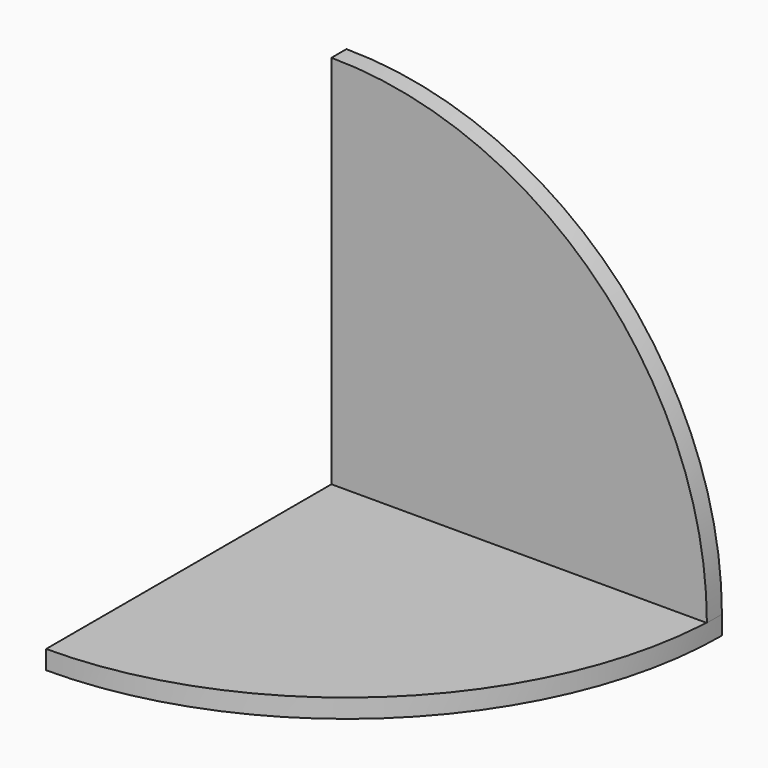
from build123d import *

# Parameters (mm, degrees)
F1_DEPTH = 12.7
F3_DEPTH = 12.7


with BuildPart() as f1:
    # F0 (on Top) → F1 (new body)
    with BuildSketch(Plane.XY):
        with BuildLine():
            Line((254, 0), (0, 0))
            Line((0, 0), (0, -254))
            ThreePointArc((0, -254), (179.605122, -179.605122), (254, 0))
        make_face()
    extrude(amount=-F1_DEPTH)


with BuildPart() as f3:
    # F2 (on Front) → F3 (new body)
    with BuildSketch(Plane.XZ):
        with BuildLine():
            Line((0, 254), (0, 0))
            Line((0, 0), (254, 0))
            ThreePointArc((254, 0), (179.605122, 179.605122), (0, 254))
        make_face()
    extrude(amount=F3_DEPTH)


solid = Compound([f1.part, f3.part])
